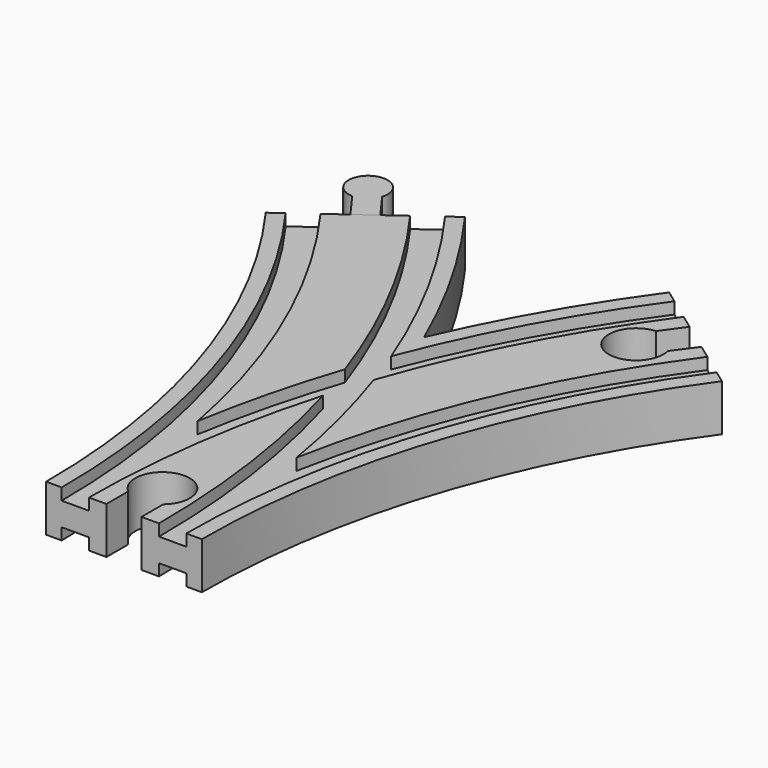
from build123d import *

# Parameters (mm, degrees)
SKETCH003_W          = 7
SKETCH003_H          = 3
SKETCH004_W          = 7
SKETCH004_H          = 3
SKETCH005_W          = 7
SKETCH005_H          = 3
SKETCH006_W          = 7
SKETCH006_H          = 3
POCKET_DEPTH         = 6.001
POCKET_DEPTH_BACK    = -6.001
POCKET001_DEPTH      = 6.001
POCKET001_DEPTH_BACK = -6.001
PAD002_DEPTH         = 6


with BuildPart() as main:
    # AdditivePipe: sweep along a path in Sketch
    with BuildLine(Plane.XY) as additivepipe_path:
        ThreePointArc((0, 0), (-10.865453, 68.601773), (-42.398227, 130.488326))
    # Sketch002 → AdditivePipe (sweep)
    with BuildSketch(Plane.XZ):
        Polygon((-20, 6), (-20, -6), (-16, -6), (-16, -3), (-9, -3), (-9, -6), (9, -6), (9, -3), (16, -3), (16, -6), (20, -6), (20, 6), (16, 6), (16, 3), (9, 3), (9, 6), (-9, 6), (-9, 3), (-16, 3), (-16, 6), align=None)
    sweep(path=additivepipe_path.line)

    # AdditivePipe001: sweep along a path in Sketch001
    with BuildLine(Plane.XY) as additivepipe001_path:
        ThreePointArc((42.398227, 130.488326), (10.865453, 68.601773), (0, 0))
    # Sketch002 → AdditivePipe001 (sweep)
    with BuildSketch(Plane.XZ):
        Polygon((-20, 6), (-20, -6), (-16, -6), (-16, -3), (-9, -3), (-9, -6), (9, -6), (9, -3), (16, -3), (16, -6), (20, -6), (20, 6), (16, 6), (16, 3), (9, 3), (9, 6), (-9, 6), (-9, 3), (-16, 3), (-16, 6), align=None)
    sweep(path=additivepipe001_path.line)

    # SubtractivePipe: sweep along a path in Sketch
    with BuildLine(Plane.XY) as subtractivepipe_path:
        ThreePointArc((0, 0), (-10.865453, 68.601773), (-42.398227, 130.488326))
    # Sketch003 → SubtractivePipe (sweep, cut)
    with BuildSketch(Plane.XZ):
        with Locations((-12.5, 4.5)):
            Rectangle(SKETCH003_W, SKETCH003_H)
    sweep(path=subtractivepipe_path.line, mode=Mode.SUBTRACT)

    # SubtractivePipe001: sweep along a path in Sketch001
    with BuildLine(Plane.XY) as subtractivepipe001_path:
        ThreePointArc((42.398227, 130.488326), (10.865453, 68.601773), (0, 0))
    # Sketch003 → SubtractivePipe001 (sweep, cut)
    with BuildSketch(Plane.XZ):
        with Locations((-12.5, 4.5)):
            Rectangle(SKETCH003_W, SKETCH003_H)
    sweep(path=subtractivepipe001_path.line, mode=Mode.SUBTRACT)

    # SubtractivePipe002: sweep along a path in Sketch
    with BuildLine(Plane.XY) as subtractivepipe002_path:
        ThreePointArc((0, 0), (-10.865453, 68.601773), (-42.398227, 130.488326))
    # Sketch004 → SubtractivePipe002 (sweep, cut)
    with BuildSketch(Plane.XZ):
        with Locations((12.5, 4.5)):
            Rectangle(SKETCH004_W, SKETCH004_H)
    sweep(path=subtractivepipe002_path.line, mode=Mode.SUBTRACT)

    # SubtractivePipe003: sweep along a path in Sketch001
    with BuildLine(Plane.XY) as subtractivepipe003_path:
        ThreePointArc((42.398227, 130.488326), (10.865453, 68.601773), (0, 0))
    # Sketch004 → SubtractivePipe003 (sweep, cut)
    with BuildSketch(Plane.XZ):
        with Locations((12.5, 4.5)):
            Rectangle(SKETCH004_W, SKETCH004_H)
    sweep(path=subtractivepipe003_path.line, mode=Mode.SUBTRACT)

    # SubtractivePipe004: sweep along a path in Sketch
    with BuildLine(Plane.XY) as subtractivepipe004_path:
        ThreePointArc((0, 0), (-10.865453, 68.601773), (-42.398227, 130.488326))
    # Sketch005 → SubtractivePipe004 (sweep, cut)
    with BuildSketch(Plane.XZ):
        with Locations((-12.5, -4.5)):
            Rectangle(SKETCH005_W, SKETCH005_H)
    sweep(path=subtractivepipe004_path.line, mode=Mode.SUBTRACT)

    # SubtractivePipe005: sweep along a path in Sketch001
    with BuildLine(Plane.XY) as subtractivepipe005_path:
        ThreePointArc((42.398227, 130.488326), (10.865453, 68.601773), (0, 0))
    # Sketch005 → SubtractivePipe005 (sweep, cut)
    with BuildSketch(Plane.XZ):
        with Locations((-12.5, -4.5)):
            Rectangle(SKETCH005_W, SKETCH005_H)
    sweep(path=subtractivepipe005_path.line, mode=Mode.SUBTRACT)

    # SubtractivePipe006: sweep along a path in Sketch
    with BuildLine(Plane.XY) as subtractivepipe006_path:
        ThreePointArc((0, 0), (-10.865453, 68.601773), (-42.398227, 130.488326))
    # Sketch006 → SubtractivePipe006 (sweep, cut)
    with BuildSketch(Plane.XZ):
        with Locations((12.5, -4.5)):
            Rectangle(SKETCH006_W, SKETCH006_H)
    sweep(path=subtractivepipe006_path.line, mode=Mode.SUBTRACT)

    # SubtractivePipe007: sweep along a path in Sketch001
    with BuildLine(Plane.XY) as subtractivepipe007_path:
        ThreePointArc((42.398227, 130.488326), (10.865453, 68.601773), (0, 0))
    # Sketch006 → SubtractivePipe007 (sweep, cut)
    with BuildSketch(Plane.XZ):
        with Locations((12.5, -4.5)):
            Rectangle(SKETCH006_W, SKETCH006_H)
    sweep(path=subtractivepipe007_path.line, mode=Mode.SUBTRACT)

    # Sketch007 → Pocket (cut, two sides)
    with BuildSketch(Plane.XY) as pocket_sk:
        with BuildLine():
            Line((-4.5, 0), (4.5, 0))
            Line((4.5, 0), (4.5, 7))
            ThreePointArc((4.5, 7), (0, 19.361903), (-4.5, 7))
            Line((-4.5, 0), (-4.5, 7))
        make_face()
    extrude(amount=-POCKET_DEPTH, mode=Mode.SUBTRACT)
    extrude(pocket_sk.sketch, amount=-POCKET_DEPTH_BACK, mode=Mode.SUBTRACT)

    # Sketch009 → Pocket001 (cut, two sides)
    with BuildSketch(Plane.XY) as pocket001_sk:
        with BuildLine():
            Line((38.757651, 133.13336), (46.038804, 127.843292))
            Line((46.038804, 127.843292), (41.924307, 122.180173))
            ThreePointArc((34.643154, 127.470241), (31.017586, 114.824218), (41.924307, 122.180173))
            Line((38.757651, 133.13336), (34.643154, 127.470241))
        make_face()
    extrude(amount=-POCKET001_DEPTH, mode=Mode.SUBTRACT)
    extrude(pocket001_sk.sketch, amount=-POCKET001_DEPTH_BACK, mode=Mode.SUBTRACT)


with BuildPart() as male2:
    # Sketch012 → Pad002 (new body, symmetric)
    with BuildSketch(Plane.XY):
        with BuildLine():
            Line((-44.825278, 128.72497), (-39.971176, 132.251682))
            Line((-39.971176, 132.251682), (-44.673458, 138.723818))
            ThreePointArc((-44.673458, 138.723818), (-52.390577, 144.241615), (-49.52756, 135.197106))
            Line((-44.825278, 128.72497), (-49.52756, 135.197106))
        make_face()
    extrude(amount=PAD002_DEPTH, both=True)


solid = Compound([main.part, male2.part])
